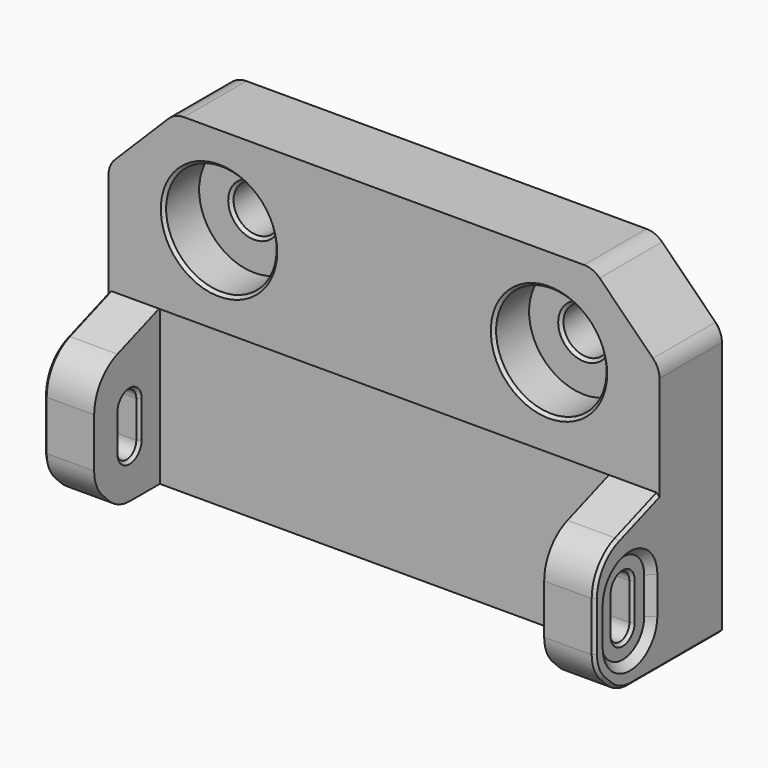
from build123d import *

# Parameters (mm, degrees)
PAD008_DEPTH    = 21
POCKET020_DEPTH = 74.801
POCKET021_DEPTH = 1
CHAMFER008_SIZE = 0.99
POCKET022_DEPTH = 1
CHAMFER009_SIZE = 0.99
POCKET023_DEPTH = 74.801
CHAMFER010_SIZE = 4
FILLET003_R     = 6
FILLET004_R     = 5
SKETCH033_W     = 74.8
SKETCH033_H     = 11
PAD009_DEPTH    = 24
SKETCH034_R     = 3.15
POCKET024_DEPTH = 22.001
SKETCH035_R     = 7.5
POCKET025_DEPTH = 6
CHAMFER011_SIZE = 9
FILLET005_R     = 3
CHAMFER012_SIZE = 0.4


with BuildPart() as part:
    # Sketch028 → Pad008 (new body)
    with BuildSketch(Plane.XY):
        Polygon((-25.65, -11), (-25.65, 0.15), (35.45, 0.15), (35.45, -11), (42.3, -11), (42.3, 11), (-32.5, 11), (-32.5, -11), align=None)
    extrude(amount=PAD008_DEPTH)

    # Sketch029 (on Face7 of Pad008) → Pocket020 (cut, through all)
    with BuildSketch(Plane(origin=(-32.5, 0, 0), x_dir=(0, -1, 0), z_dir=(-1, 0, 0))):
        with BuildLine():
            ThreePointArc((3.35, 6.5), (5, 4.85), (6.65, 6.5))
            Line((6.65, 6.5), (6.65, 11.5))
            ThreePointArc((6.65, 11.5), (5, 13.15), (3.35, 11.5))
            Line((3.35, 6.5), (3.35, 11.5))
        make_face()
    extrude(amount=-POCKET020_DEPTH, mode=Mode.SUBTRACT)

    # Sketch030 (on Face10 of Pocket020) → Pocket021 (cut)
    with BuildSketch(Plane(origin=(-32.5, 0, 0), x_dir=(0, -1, 0), z_dir=(-1, 0, 0))):
        with BuildLine():
            ThreePointArc((8.65, 11.5), (5, 15.15), (1.35, 11.5))
            Line((1.35, 11.5), (1.35, 6.5))
            ThreePointArc((1.35, 6.5), (5, 2.85), (8.65, 6.5))
            Line((8.65, 11.5), (8.65, 6.5))
        make_face()
    extrude(amount=-POCKET021_DEPTH, mode=Mode.SUBTRACT)

    # Chamfer008
    chamfer008_edges = [part.edges().sort_by_distance(p)[0] for p in [
        (-32.5, -1.35, 9),
    ]]
    chamfer(chamfer008_edges, length=CHAMFER008_SIZE)

    # Sketch031 (on Face14 of Chamfer008) → Pocket022 (cut)
    with BuildSketch(Plane.YZ.offset(42.3)):
        with BuildLine():
            ThreePointArc((-1.35, 11.5), (-5, 15.15), (-8.65, 11.5))
            Line((-8.65, 11.5), (-8.65, 6.5))
            ThreePointArc((-8.65, 6.5), (-5, 2.85), (-1.35, 6.5))
            Line((-1.35, 11.5), (-1.35, 6.5))
        make_face()
    extrude(amount=-POCKET022_DEPTH, mode=Mode.SUBTRACT)

    # Chamfer009
    chamfer009_edges = [part.edges().sort_by_distance(p)[0] for p in [
        (42.3, -8.65, 9),
    ]]
    chamfer(chamfer009_edges, length=CHAMFER009_SIZE)

    # Sketch032 (on Face1 of Chamfer009) → Pocket023 (cut, through all)
    with BuildSketch(Plane.YZ.offset(42.3)):
        Polygon((0, 21), (-11, 21), (-11, 17), align=None)
    extrude(amount=-POCKET023_DEPTH, mode=Mode.SUBTRACT)

    # Chamfer010
    chamfer010_edges = [part.edges().sort_by_distance(p)[0] for p in [
        (38.875, -11, 0),
        (-29.075, -11, 0),
    ]]
    chamfer(chamfer010_edges, length=CHAMFER010_SIZE)

    # Fillet003
    fillet003_edges = [part.edges().sort_by_distance(p)[0] for p in [
        (-29.075, -11, 17),
        (38.875, -11, 17),
    ]]
    fillet(fillet003_edges, radius=FILLET003_R)

    # Fillet004
    fillet004_edges = [part.edges().sort_by_distance(p)[0] for p in [
        (-29.075, -11, 4),
        (-29.075, -7, 0),
        (38.875, -11, 4),
        (38.875, -7, 0),
    ]]
    fillet(fillet004_edges, radius=FILLET004_R)

    # Sketch033 (on Face8 of Fillet004) → Pad009 (join)
    with BuildSketch(Plane.XY.offset(21)):
        with Locations((4.9, 5.5)):
            Rectangle(SKETCH033_W, SKETCH033_H)
    extrude(amount=PAD009_DEPTH)

    # Sketch034 (on Face17 of Pad009) → Pocket024 (cut, through all)
    with BuildSketch(Plane(origin=(0, 11, 0), x_dir=(-1, 0, 0), z_dir=(0, 1, 0))):
        with Locations((-27.3, 33)):
            Circle(SKETCH034_R)
        with Locations((17.5, 33)):
            Circle(SKETCH034_R)
    extrude(amount=-POCKET024_DEPTH, mode=Mode.SUBTRACT)

    # Sketch035 (on Face16 of Pocket024) → Pocket025 (cut)
    with BuildSketch(Plane.XZ):
        with Locations((-17.5, 33)):
            Circle(SKETCH035_R)
        with Locations((27.3, 33)):
            Circle(SKETCH035_R)
    extrude(amount=-POCKET025_DEPTH, mode=Mode.SUBTRACT)

    # Chamfer011
    chamfer011_edges = [part.edges().sort_by_distance(p)[0] for p in [
        (-32.5, 5.5, 45),
        (42.3, 5.5, 45),
    ]]
    chamfer(chamfer011_edges, length=CHAMFER011_SIZE)

    # Fillet005
    fillet005_edges = [part.edges().sort_by_distance(p)[0] for p in [
        (-32.5, 5.5, 36),
        (-23.5, 5.5, 45),
        (33.3, 5.5, 45),
        (42.3, 5.5, 36),
    ]]
    fillet(fillet005_edges, radius=FILLET005_R)

    # Chamfer012
    chamfer012_edges = [part.edges().sort_by_distance(p)[0] for p in [
        (-32.271639, 11, 35.90541),
        (-28, 11, 40.5),
        (-23.40541, 11, 44.771639),
        (4.9, 11, 45),
        (33.20541, 11, 44.771639),
        (37.8, 11, 40.5),
        (42.071639, 11, 35.90541),
        (42.3, 11, 17.37868),
        (4.9, 11, 0),
        (-32.5, 11, 17.37868),
        (-14.35, 11, 33),
        (30.45, 11, 33),
        (-32.5, 3.035534, 0),
        (-25, 0, 33),
        (-14.35, 6, 33),
        (19.8, 0, 33),
        (30.45, 6, 33),
        (42.3, 3.035534, 0),
        (-25.65, -3.35, 9),
        (35.45, -3.35, 9),
        (-31.5, -3.35, 9),
        (41.3, -3.35, 9),
    ]]
    chamfer(chamfer012_edges, length=CHAMFER012_SIZE)


with BuildPart() as part_1:
    # Body004005 placement: moved
    add(part.part.moved(Location((0, 12, -20.5))))


solid = part_1.part
